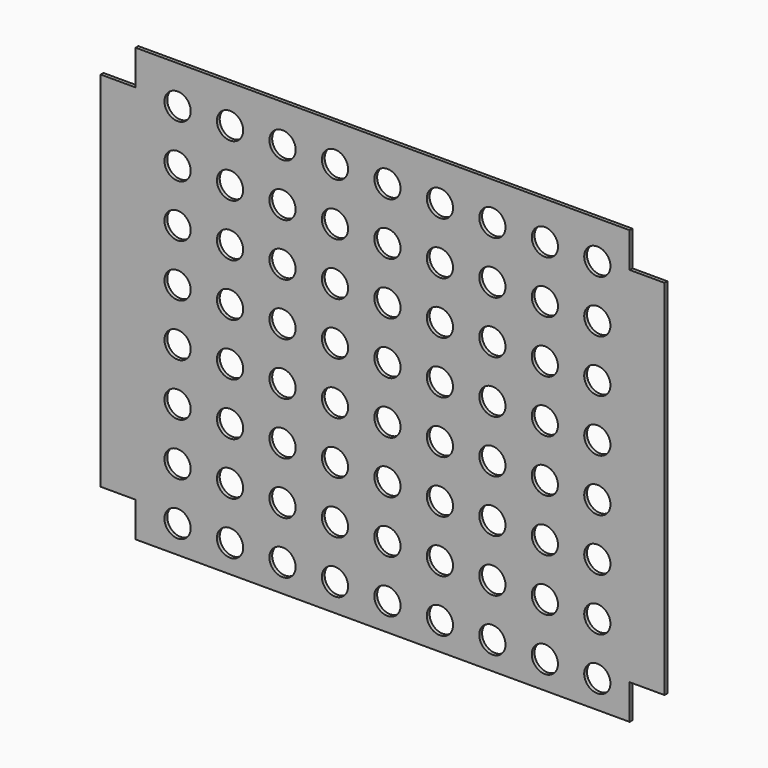
from build123d import *

# Parameters (mm, degrees)
F1_DEPTH = 4
F2_R     = 15
F3_DEPTH = 5


with BuildPart() as f1:
    # F0 (on Front) → F1 (new body)
    with BuildSketch(Plane.XZ):
        Polygon((282.5, 247.5), (0, 247.5), (-282.5, 247.5), (-282.5, 207.5), (-322.5, 207.5), (-322.5, 0), (-322.5, -207.5), (-282.5, -207.5), (-282.5, -247.5), (0, -247.5), (282.5, -247.5), (282.5, -207.5), (322.5, -207.5), (322.5, 0), (322.5, 207.5), (282.5, 207.5), align=None)
    extrude(amount=F1_DEPTH)

    # F2 (on face) → F3 (cut)
    with BuildSketch(Plane.XZ.offset(4)):
        with Locations((245.545626, -215.859562)):
            Circle(F2_R)
        with Locations((245.545626, -155.859562)):
            Circle(F2_R)
        with Locations((245.545626, -95.859562)):
            Circle(F2_R)
        with Locations((245.545626, -35.859562)):
            Circle(F2_R)
        with Locations((245.545626, 24.140438)):
            Circle(F2_R)
        with Locations((245.545626, 84.140438)):
            Circle(F2_R)
        with Locations((245.545626, 144.140438)):
            Circle(F2_R)
        with Locations((245.545626, 204.140438)):
            Circle(F2_R)
        with Locations((185.545626, -215.859562)):
            Circle(F2_R)
        with Locations((185.545626, -155.859562)):
            Circle(F2_R)
        with Locations((185.545626, -95.859562)):
            Circle(F2_R)
        with Locations((185.545626, -35.859562)):
            Circle(F2_R)
        with Locations((185.545626, 24.140438)):
            Circle(F2_R)
        with Locations((185.545626, 84.140438)):
            Circle(F2_R)
        with Locations((185.545626, 144.140438)):
            Circle(F2_R)
        with Locations((185.545626, 204.140438)):
            Circle(F2_R)
        with Locations((125.545626, -215.859562)):
            Circle(F2_R)
        with Locations((125.545626, -155.859562)):
            Circle(F2_R)
        with Locations((125.545626, -95.859562)):
            Circle(F2_R)
        with Locations((125.545626, -35.859562)):
            Circle(F2_R)
        with Locations((125.545626, 24.140438)):
            Circle(F2_R)
        with Locations((125.545626, 84.140438)):
            Circle(F2_R)
        with Locations((125.545626, 144.140438)):
            Circle(F2_R)
        with Locations((125.545626, 204.140438)):
            Circle(F2_R)
        with Locations((65.545626, -215.859562)):
            Circle(F2_R)
        with Locations((65.545626, -155.859562)):
            Circle(F2_R)
        with Locations((65.545626, -95.859562)):
            Circle(F2_R)
        with Locations((65.545626, -35.859562)):
            Circle(F2_R)
        with Locations((65.545626, 24.140438)):
            Circle(F2_R)
        with Locations((65.545626, 84.140438)):
            Circle(F2_R)
        with Locations((65.545626, 144.140438)):
            Circle(F2_R)
        with Locations((65.545626, 204.140438)):
            Circle(F2_R)
        with Locations((5.545626, -215.859562)):
            Circle(F2_R)
        with Locations((5.545626, -155.859562)):
            Circle(F2_R)
        with Locations((5.545626, -95.859562)):
            Circle(F2_R)
        with Locations((5.545626, -35.859562)):
            Circle(F2_R)
        with Locations((5.545626, 24.140438)):
            Circle(F2_R)
        with Locations((5.545626, 84.140438)):
            Circle(F2_R)
        with Locations((5.545626, 144.140438)):
            Circle(F2_R)
        with Locations((5.545626, 204.140438)):
            Circle(F2_R)
        with Locations((-54.454374, -215.859562)):
            Circle(F2_R)
        with Locations((-54.454374, -155.859562)):
            Circle(F2_R)
        with Locations((-54.454374, -95.859562)):
            Circle(F2_R)
        with Locations((-54.454374, -35.859562)):
            Circle(F2_R)
        with Locations((-54.454374, 24.140438)):
            Circle(F2_R)
        with Locations((-54.454374, 84.140438)):
            Circle(F2_R)
        with Locations((-54.454374, 144.140438)):
            Circle(F2_R)
        with Locations((-54.454374, 204.140438)):
            Circle(F2_R)
        with Locations((-114.454374, -215.859562)):
            Circle(F2_R)
        with Locations((-114.454374, -155.859562)):
            Circle(F2_R)
        with Locations((-114.454374, -95.859562)):
            Circle(F2_R)
        with Locations((-114.454374, -35.859562)):
            Circle(F2_R)
        with Locations((-114.454374, 24.140438)):
            Circle(F2_R)
        with Locations((-114.454374, 84.140438)):
            Circle(F2_R)
        with Locations((-114.454374, 144.140438)):
            Circle(F2_R)
        with Locations((-114.454374, 204.140438)):
            Circle(F2_R)
        with Locations((-174.454374, -215.859562)):
            Circle(F2_R)
        with Locations((-174.454374, -155.859562)):
            Circle(F2_R)
        with Locations((-174.454374, -95.859562)):
            Circle(F2_R)
        with Locations((-174.454374, -35.859562)):
            Circle(F2_R)
        with Locations((-174.454374, 24.140438)):
            Circle(F2_R)
        with Locations((-174.454374, 84.140438)):
            Circle(F2_R)
        with Locations((-174.454374, 144.140438)):
            Circle(F2_R)
        with Locations((-174.454374, 204.140438)):
            Circle(F2_R)
        with Locations((-234.454374, -215.859562)):
            Circle(F2_R)
        with Locations((-234.454374, -155.859562)):
            Circle(F2_R)
        with Locations((-234.454374, -95.859562)):
            Circle(F2_R)
        with Locations((-234.454374, -35.859562)):
            Circle(F2_R)
        with Locations((-234.454374, 24.140438)):
            Circle(F2_R)
        with Locations((-234.454374, 84.140438)):
            Circle(F2_R)
        with Locations((-234.454374, 144.140438)):
            Circle(F2_R)
        with Locations((-234.454374, 204.140438)):
            Circle(F2_R)
    extrude(amount=-F3_DEPTH, mode=Mode.SUBTRACT)


solid = f1.part
